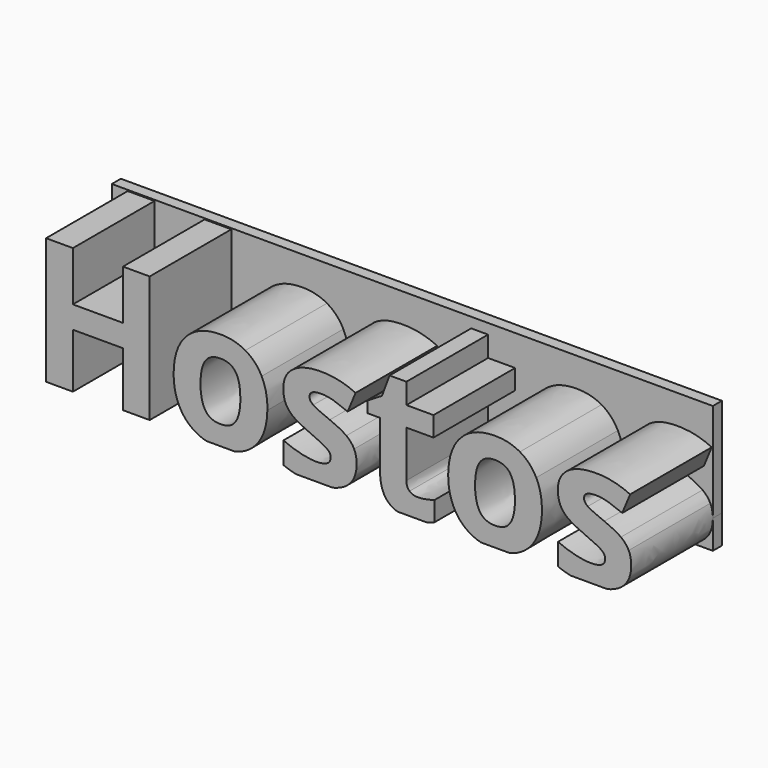
from build123d import *

# Parameters (mm, degrees)
F1_DEPTH = 25.4
F2_DEPTH = 2.54
F0_W     = 11.2133684961
F0_H     = 12.2237494054


with BuildPart() as f1:
    # F0 (on Front) → F1 (new body)
    with BuildSketch(Plane.XZ):
        Polygon((-48.6938247979, 41.4673178578), (-48.6938247979, 13.1456591189), (-42.6873272453, 13.1456591189), (-42.6873272453, 25.3694085243), (-31.4739587492, 25.3694085243), (-31.4739587492, 13.1456591189), (-25.4860571642, 13.1456591189), (-25.4860571642, 41.4673178578), (-31.4739587492, 41.4673178578), (-31.4739587492, 30.3655251676), (-42.6873272453, 30.3655251676), (-42.6873272453, 41.4673178578), align=None)
        with BuildLine():
            add(Edge.make_bspline(
                [(-12.8028167452, 13.1456591189), (-14.0713804689, 13.4857310654), (-15.1807917553, 14.1219474208)],
                knots=[0.5345224838, 0.5345224838, 0.5345224838, 1, 1, 1], degree=2))
            Line((-12.8028167452, 13.1456591189), (-6.3648471576, 13.1456591189))
            add(Edge.make_bspline(
                [(-1.9125688333, 15.7397966068), (-3.692984882, 13.8347514347), (-6.3648471576, 13.1456591189)],
                knots=[0, 0, 0, 0.6382803275, 0.6382803275, 0.6382803275], degree=2))
            add(Edge.make_bspline(
                [(0.8733773414, 23.6429013312), (0.7787419111, 18.6194991032), (-1.9125688333, 15.7397966068)],
                knots=[0.0351633235, 0.0351633235, 0.0351633235, 1, 1, 1], degree=2))
            add(Edge.make_bspline(
                [(0.876826315, 24.0119028854), (0.876826315, 23.8259784486), (0.8733773414, 23.6429013312)],
                knots=[0, 0, 0, 0.0351633235, 0.0351633235, 0.0351633235], degree=2))
            add(Edge.make_bspline(
                [(-0.4000967973, 29.9595132072), (0.876826315, 27.4211636222), (0.876826315, 24.0119028854)],
                knots=[0, 0, 0, 1, 1, 1], degree=2))
            add(Edge.make_bspline(
                [(-4.0604030975, 33.852269103), (-1.6770199096, 32.4978627921), (-0.4000967973, 29.9595132072)],
                knots=[0, 0, 0, 1, 1, 1], degree=2))
            add(Edge.make_bspline(
                [(-9.5617101955, 35.2066754139), (-6.4437862853, 35.2066754139), (-4.0604030975, 33.852269103)],
                knots=[0, 0, 0, 1, 1, 1], degree=2))
            add(Edge.make_bspline(
                [(-17.3503213151, 32.2623138685), (-14.5826214624, 35.2066754139), (-9.5617101955, 35.2066754139)],
                knots=[0, 0, 0, 1, 1, 1], degree=2))
            add(Edge.make_bspline(
                [(-20.1180211677, 24.0119028854), (-20.1180211677, 29.3179523231), (-17.3503213151, 32.2623138685)],
                knots=[0, 0, 0, 1, 1, 1], degree=2))
            add(Edge.make_bspline(
                [(-18.8410980554, 18.045696596), (-20.1180211677, 20.6026421486), (-20.1180211677, 24.0119028854)],
                knots=[0, 0, 0, 1, 1, 1], degree=2))
            add(Edge.make_bspline(
                [(-15.1807917553, 14.1219474208), (-17.5641749431, 15.4887510434), (-18.8410980554, 18.045696596)],
                knots=[0, 0, 0, 1, 1, 1], degree=2))
        make_face()
        with BuildLine():
            add(Edge.make_bspline(
                [(-5.1703271974, 23.6429013312), (-5.1668631729, 23.8247263049), (-5.1668631729, 24.0119028854)],
                knots=[0.9421526487, 0.9421526487, 0.9421526487, 1, 1, 1], degree=2))
            add(Edge.make_bspline(
                [(-6.2020387057, 19.1397593598), (-5.2267453357, 20.6815404957), (-5.1703271974, 23.6429013312)],
                knots=[0, 0, 0, 0.9421526487, 0.9421526487, 0.9421526487], degree=2))
            add(Edge.make_bspline(
                [(-9.6051007867, 17.5033142061), (-7.2372142386, 17.5033142061), (-6.2020387057, 19.1397593598)],
                knots=[0, 0, 0, 1, 1, 1], degree=2))
            add(Edge.make_bspline(
                [(-13.0422554749, 19.1490573436), (-11.9853846465, 17.5033142061), (-9.6051007867, 17.5033142061)],
                knots=[0, 0, 0, 1, 1, 1], degree=2))
            add(Edge.make_bspline(
                [(-14.0991263033, 24.0119028854), (-14.0991263033, 20.7948004811), (-13.0422554749, 19.1490573436)],
                knots=[0, 0, 0, 1, 1, 1], degree=2))
            add(Edge.make_bspline(
                [(-13.0515534588, 28.8468544758), (-14.0991263033, 27.2476012574), (-14.0991263033, 24.0119028854)],
                knots=[0, 0, 0, 1, 1, 1], degree=2))
            add(Edge.make_bspline(
                [(-9.642292722, 30.4461076941), (-12.0039806142, 30.4461076941), (-13.0515534588, 28.8468544758)],
                knots=[0, 0, 0, 1, 1, 1], degree=2))
            add(Edge.make_bspline(
                [(-6.2113366896, 28.837556492), (-7.2558102062, 30.4461076941), (-9.642292722, 30.4461076941)],
                knots=[0, 0, 0, 1, 1, 1], degree=2))
            add(Edge.make_bspline(
                [(-5.1668631729, 24.0119028854), (-5.1668631729, 27.2290052898), (-6.2113366896, 28.837556492)],
                knots=[0, 0, 0, 1, 1, 1], degree=2))
        make_face(mode=Mode.SUBTRACT)
        with BuildLine():
            add(Edge.make_bspline(
                [(7.2675746635, 13.1456591189), (5.7883494498, 13.4624450646), (4.4844440401, 14.0196695987)],
                knots=[0.101055867, 0.101055867, 0.101055867, 1, 1, 1], degree=2))
            Line((7.2675746635, 13.1456591189), (15.4809776707, 13.1456591189))
            add(Edge.make_bspline(
                [(18.5584922272, 14.5000654298), (17.3385592516, 13.5806246463), (15.4809776707, 13.1456591189)],
                knots=[0, 0, 0, 0.5269238267, 0.5269238267, 0.5269238267], degree=2))
            add(Edge.make_bspline(
                [(20.8736902003, 19.5798639276), (20.8736902003, 16.2449870614), (18.5584922272, 14.5000654298)],
                knots=[0, 0, 0, 1, 1, 1], degree=2))
            add(Edge.make_bspline(
                [(20.3096125147, 22.3475637803), (20.8736902003, 21.1853158018), (20.8736902003, 19.5798639276)],
                knots=[0, 0, 0, 1, 1, 1], degree=2))
            add(Edge.make_bspline(
                [(18.5646908831, 24.3993188782), (19.7455348292, 23.5098117587), (20.3096125147, 22.3475637803)],
                knots=[0, 0, 0, 1, 1, 1], degree=2))
            add(Edge.make_bspline(
                [(14.84859668, 26.3178028747), (17.383846937, 25.2888259978), (18.5646908831, 24.3993188782)],
                knots=[0, 0, 0, 1, 1, 1], degree=2))
            add(Edge.make_bspline(
                [(11.1541977725, 28.0410292107), (11.9972149728, 27.4583555575), (14.84859668, 26.3178028747)],
                knots=[0, 0, 0, 1, 1, 1], degree=2))
            add(Edge.make_bspline(
                [(10.3111805721, 29.4171308172), (10.3111805721, 28.6237028639), (11.1541977725, 28.0410292107)],
                knots=[0, 0, 0, 1, 1, 1], degree=2))
            add(Edge.make_bspline(
                [(12.9270133556, 30.830424359), (10.3111805721, 30.830424359), (10.3111805721, 29.4171308172)],
                knots=[0, 0, 0, 1, 1, 1], degree=2))
            add(Edge.make_bspline(
                [(15.815586998, 30.3841211353), (14.4022934562, 30.830424359), (12.9270133556, 30.830424359)],
                knots=[0, 0, 0, 1, 1, 1], degree=2))
            add(Edge.make_bspline(
                [(18.8591270376, 29.2435684524), (17.2288805398, 29.9378179116), (15.815586998, 30.3841211353)],
                knots=[0, 0, 0, 1, 1, 1], degree=2))
            Line((18.8591270376, 29.2435684524), (20.6381412766, 33.5020450455))
            add(Edge.make_bspline(
                [(13.0261918498, 35.2066754139), (16.9375437132, 35.2066754139), (20.6381412766, 33.5020450455)],
                knots=[0, 0, 0, 1, 1, 1], degree=2))
            add(Edge.make_bspline(
                [(6.6818675514, 33.6291174911), (8.9164829979, 35.2066754139), (13.0261918498, 35.2066754139)],
                knots=[0, 0, 0, 1, 1, 1], degree=2))
            add(Edge.make_bspline(
                [(4.4472521048, 29.1629859259), (4.4472521048, 32.0515595684), (6.6818675514, 33.6291174911)],
                knots=[0, 0, 0, 1, 1, 1], degree=2))
            add(Edge.make_bspline(
                [(4.977237183, 26.3302001864), (4.4472521048, 27.4831501811), (4.4472521048, 29.1629859259)],
                knots=[0, 0, 0, 1, 1, 1], degree=2))
            add(Edge.make_bspline(
                [(6.6818675514, 24.2846437444), (5.5072222612, 25.1772501918), (4.977237183, 26.3302001864)],
                knots=[0, 0, 0, 1, 1, 1], degree=2))
            add(Edge.make_bspline(
                [(10.3545711633, 22.3444644523), (7.8565128416, 23.3920372969), (6.6818675514, 24.2846437444)],
                knots=[0, 0, 0, 1, 1, 1], degree=2))
            add(Edge.make_bspline(
                [(13.1408669836, 21.0613426841), (12.096393467, 21.6130230579), (10.3545711633, 22.3444644523)],
                knots=[0, 0, 0, 1, 1, 1], degree=2))
            add(Edge.make_bspline(
                [(14.6130477563, 20.0726570705), (14.1853405003, 20.5096623104), (13.1408669836, 21.0613426841)],
                knots=[0, 0, 0, 1, 1, 1], degree=2))
            add(Edge.make_bspline(
                [(15.0407550124, 18.9352037156), (15.0407550124, 19.6356518306), (14.6130477563, 20.0726570705)],
                knots=[0, 0, 0, 1, 1, 1], degree=2))
            add(Edge.make_bspline(
                [(11.823652608, 17.07560695), (15.0407550124, 17.07560695), (15.0407550124, 18.9352037156)],
                knots=[0, 0, 0, 1, 1, 1], degree=2))
            add(Edge.make_bspline(
                [(8.1912402594, 17.5993933723), (10.2553926691, 17.07560695), (11.823652608, 17.07560695)],
                knots=[0, 0, 0, 1, 1, 1], degree=2))
            add(Edge.make_bspline(
                [(4.4844440401, 18.8980117802), (6.1270878497, 18.1231797946), (8.1912402594, 17.5993933723)],
                knots=[0, 0, 0, 1, 1, 1], degree=2))
            Line((4.4844440401, 18.8980117802), (4.4844440401, 14.0196695987))
        make_face()
        with BuildLine():
            Line((30.010569154, 13.1456591189), (36.5386766088, 13.1456591189))
            add(Edge.make_bspline(
                [(38.3229065167, 13.7469287397), (37.5008917701, 13.3774839098), (36.5386766088, 13.1456591189)],
                knots=[0, 0, 0, 0.3725049801, 0.3725049801, 0.3725049801], degree=2))
            Line((38.3229065167, 13.7469287397), (38.3229065167, 18.1417757623))
            add(Edge.make_bspline(
                [(34.6037129857, 17.4661222708), (36.153376957, 17.4661222708), (38.3229065167, 18.1417757623)],
                knots=[0, 0, 0, 1, 1, 1], degree=2))
            add(Edge.make_bspline(
                [(32.7317189084, 18.0673918916), (33.4383656793, 17.4661222708), (34.6037129857, 17.4661222708)],
                knots=[0, 0, 0, 1, 1, 1], degree=2))
            add(Edge.make_bspline(
                [(32.0250721375, 19.9269886572), (32.0250721375, 18.6686615125), (32.7317189084, 18.0673918916)],
                knots=[0, 0, 0, 1, 1, 1], degree=2))
            Line((32.0250721375, 19.9269886572), (32.0250721375, 30.3655251676))
            Line((32.0250721375, 30.3655251676), (38.0873575931, 30.3655251676))
            Line((38.0873575931, 30.3655251676), (38.0873575931, 34.8037627813))
            Line((38.0873575931, 34.8037627813), (32.0250721375, 34.8037627813))
            Line((32.0250721375, 34.8037627813), (32.0250721375, 39.4155627598))
            Line((32.0250721375, 39.4155627598), (28.2500907035, 39.4155627598))
            Line((28.2500907035, 39.4155627598), (26.5454603351, 34.8409547167))
            Line((26.5454603351, 34.8409547167), (23.2911659954, 32.8635834893))
            Line((23.2911659954, 32.8635834893), (23.2911659954, 30.3655251676))
            Line((23.2911659954, 30.3655251676), (26.117753079, 30.3655251676))
            Line((26.117753079, 30.3655251676), (26.117753079, 19.9269886572))
            add(Edge.make_bspline(
                [(27.735602265, 14.5496546769), (26.117753079, 16.3441655556), (26.117753079, 19.9269886572)],
                knots=[0, 0, 0, 1, 1, 1], degree=2))
            add(Edge.make_bspline(
                [(30.010569154, 13.1456591189), (28.5987346372, 13.592272218), (27.735602265, 14.5496546769)],
                knots=[0.4664939231, 0.4664939231, 0.4664939231, 1, 1, 1], degree=2))
        make_face()
        with BuildLine():
            Line((48.7002469466, 13.1456591189), (55.1382165341, 13.1456591189))
            add(Edge.make_bspline(
                [(59.5904948584, 15.7397966068), (57.8100788097, 13.8347514347), (55.1382165341, 13.1456591189)],
                knots=[0, 0, 0, 0.6382803275, 0.6382803275, 0.6382803275], degree=2))
            add(Edge.make_bspline(
                [(62.3798900067, 24.0119028854), (62.3798900067, 18.7244494155), (59.5904948584, 15.7397966068)],
                knots=[0, 0, 0, 1, 1, 1], degree=2))
            add(Edge.make_bspline(
                [(61.1029668944, 29.9595132072), (62.3798900067, 27.4211636222), (62.3798900067, 24.0119028854)],
                knots=[0, 0, 0, 1, 1, 1], degree=2))
            add(Edge.make_bspline(
                [(57.4426605943, 33.852269103), (59.8260437821, 32.4978627921), (61.1029668944, 29.9595132072)],
                knots=[0, 0, 0, 1, 1, 1], degree=2))
            add(Edge.make_bspline(
                [(51.9413534963, 35.2066754139), (55.0592774064, 35.2066754139), (57.4426605943, 33.852269103)],
                knots=[0, 0, 0, 1, 1, 1], degree=2))
            add(Edge.make_bspline(
                [(44.1527423767, 32.2623138685), (46.9204422293, 35.2066754139), (51.9413534963, 35.2066754139)],
                knots=[0, 0, 0, 1, 1, 1], degree=2))
            add(Edge.make_bspline(
                [(41.3875737387, 24.330670014), (41.4687422411, 29.4069945753), (44.1527423767, 32.2623138685)],
                knots=[0.0302416164, 0.0302416164, 0.0302416164, 1, 1, 1], degree=2))
            add(Edge.make_bspline(
                [(41.385042524, 24.0119028854), (41.385042524, 24.1723663969), (41.3875737387, 24.330670014)],
                knots=[0, 0, 0, 0.0302416164, 0.0302416164, 0.0302416164], degree=2))
            add(Edge.make_bspline(
                [(42.6619656363, 18.045696596), (41.385042524, 20.6026421486), (41.385042524, 24.0119028854)],
                knots=[0, 0, 0, 1, 1, 1], degree=2))
            add(Edge.make_bspline(
                [(46.3222719364, 14.1219474208), (43.9388887486, 15.4887510434), (42.6619656363, 18.045696596)],
                knots=[0, 0, 0, 1, 1, 1], degree=2))
            add(Edge.make_bspline(
                [(48.7002469466, 13.1456591189), (47.4316832228, 13.4857310654), (46.3222719364, 14.1219474208)],
                knots=[0.5345224838, 0.5345224838, 0.5345224838, 1, 1, 1], degree=2))
        make_face()
        with BuildLine():
            add(Edge.make_bspline(
                [(47.4039373884, 24.0119028854), (47.4039373884, 20.7948004811), (48.4608082168, 19.1490573436)],
                knots=[0, 0, 0, 1, 1, 1], degree=2))
            add(Edge.make_bspline(
                [(48.451510233, 28.8468544758), (47.4039373884, 27.2476012574), (47.4039373884, 24.0119028854)],
                knots=[0, 0, 0, 1, 1, 1], degree=2))
            add(Edge.make_bspline(
                [(51.8607709697, 30.4461076941), (49.4990830775, 30.4461076941), (48.451510233, 28.8468544758)],
                knots=[0, 0, 0, 1, 1, 1], degree=2))
            add(Edge.make_bspline(
                [(55.2917270021, 28.837556492), (54.2472534855, 30.4461076941), (51.8607709697, 30.4461076941)],
                knots=[0, 0, 0, 1, 1, 1], degree=2))
            add(Edge.make_bspline(
                [(56.3298819879, 24.502614513), (56.2549629773, 27.3541159248), (55.2917270021, 28.837556492)],
                knots=[0.0777784598, 0.0777784598, 0.0777784598, 1, 1, 1], degree=2))
            add(Edge.make_bspline(
                [(56.3362005188, 24.0119028854), (56.3362005188, 24.2621241555), (56.3298819879, 24.502614513)],
                knots=[0, 0, 0, 0.0777784598, 0.0777784598, 0.0777784598], degree=2))
            add(Edge.make_bspline(
                [(55.301024986, 19.1397593598), (56.3362005188, 20.7762045134), (56.3362005188, 24.0119028854)],
                knots=[0, 0, 0, 1, 1, 1], degree=2))
            add(Edge.make_bspline(
                [(51.8979629051, 17.5033142061), (54.2658494532, 17.5033142061), (55.301024986, 19.1397593598)],
                knots=[0, 0, 0, 1, 1, 1], degree=2))
            add(Edge.make_bspline(
                [(48.4608082168, 19.1490573436), (49.5176790452, 17.5033142061), (51.8979629051, 17.5033142061)],
                knots=[0, 0, 0, 1, 1, 1], degree=2))
        make_face(mode=Mode.SUBTRACT)
        with BuildLine():
            add(Edge.make_bspline(
                [(82.376753892, 19.5798639276), (82.376753892, 16.2449870614), (80.0615559189, 14.5000654298)],
                knots=[0, 0, 0, 1, 1, 1], degree=2))
            add(Edge.make_bspline(
                [(81.8126762064, 22.3475637803), (82.376753892, 21.1853158018), (82.376753892, 19.5798639276)],
                knots=[0, 0, 0, 1, 1, 1], degree=2))
            add(Edge.make_bspline(
                [(80.0677545748, 24.3993188782), (81.2485985209, 23.5098117587), (81.8126762064, 22.3475637803)],
                knots=[0, 0, 0, 1, 1, 1], degree=2))
            add(Edge.make_bspline(
                [(76.3516603717, 26.3178028747), (78.8869106287, 25.2888259978), (80.0677545748, 24.3993188782)],
                knots=[0, 0, 0, 1, 1, 1], degree=2))
            add(Edge.make_bspline(
                [(72.6572614642, 28.0410292107), (73.5002786645, 27.4583555575), (76.3516603717, 26.3178028747)],
                knots=[0, 0, 0, 1, 1, 1], degree=2))
            add(Edge.make_bspline(
                [(71.8142442638, 29.4171308172), (71.8142442638, 28.6237028639), (72.6572614642, 28.0410292107)],
                knots=[0, 0, 0, 1, 1, 1], degree=2))
            add(Edge.make_bspline(
                [(74.4300770473, 30.830424359), (71.8142442638, 30.830424359), (71.8142442638, 29.4171308172)],
                knots=[0, 0, 0, 1, 1, 1], degree=2))
            add(Edge.make_bspline(
                [(77.3186506898, 30.3841211353), (75.905357148, 30.830424359), (74.4300770473, 30.830424359)],
                knots=[0, 0, 0, 1, 1, 1], degree=2))
            add(Edge.make_bspline(
                [(80.3621907293, 29.2435684524), (78.7319442315, 29.9378179116), (77.3186506898, 30.3841211353)],
                knots=[0, 0, 0, 1, 1, 1], degree=2))
            Line((80.3621907293, 29.2435684524), (82.1412049683, 33.5020450455))
            add(Edge.make_bspline(
                [(74.5292555415, 35.2066754139), (78.440607405, 35.2066754139), (82.1412049683, 33.5020450455)],
                knots=[0, 0, 0, 1, 1, 1], degree=2))
            add(Edge.make_bspline(
                [(68.1849312431, 33.6291174911), (70.4195466897, 35.2066754139), (74.5292555415, 35.2066754139)],
                knots=[0, 0, 0, 1, 1, 1], degree=2))
            add(Edge.make_bspline(
                [(65.9503157965, 29.1629859259), (65.9503157965, 32.0515595684), (68.1849312431, 33.6291174911)],
                knots=[0, 0, 0, 1, 1, 1], degree=2))
            add(Edge.make_bspline(
                [(66.4803008747, 26.3302001864), (65.9503157965, 27.4831501811), (65.9503157965, 29.1629859259)],
                knots=[0, 0, 0, 1, 1, 1], degree=2))
            add(Edge.make_bspline(
                [(68.1849312431, 24.2846437444), (67.0102859529, 25.1772501918), (66.4803008747, 26.3302001864)],
                knots=[0, 0, 0, 1, 1, 1], degree=2))
            add(Edge.make_bspline(
                [(71.857634855, 22.3444644523), (69.3595765333, 23.3920372969), (68.1849312431, 24.2846437444)],
                knots=[0, 0, 0, 1, 1, 1], degree=2))
            add(Edge.make_bspline(
                [(74.6439306753, 21.0613426841), (73.5994571587, 21.6130230579), (71.857634855, 22.3444644523)],
                knots=[0, 0, 0, 1, 1, 1], degree=2))
            add(Edge.make_bspline(
                [(76.116111448, 20.0726570705), (75.688404192, 20.5096623104), (74.6439306753, 21.0613426841)],
                knots=[0, 0, 0, 1, 1, 1], degree=2))
            add(Edge.make_bspline(
                [(76.5438187041, 18.9352037156), (76.5438187041, 19.6356518306), (76.116111448, 20.0726570705)],
                knots=[0, 0, 0, 1, 1, 1], degree=2))
            add(Edge.make_bspline(
                [(73.3267162998, 17.07560695), (76.5438187041, 17.07560695), (76.5438187041, 18.9352037156)],
                knots=[0, 0, 0, 1, 1, 1], degree=2))
            add(Edge.make_bspline(
                [(69.6943039511, 17.5993933723), (71.7584563608, 17.07560695), (73.3267162998, 17.07560695)],
                knots=[0, 0, 0, 1, 1, 1], degree=2))
            add(Edge.make_bspline(
                [(65.9875077318, 18.8980117802), (67.6301515414, 18.1231797946), (69.6943039511, 17.5993933723)],
                knots=[0, 0, 0, 1, 1, 1], degree=2))
            Line((65.9875077318, 18.8980117802), (65.9875077318, 14.0196695987))
            add(Edge.make_bspline(
                [(68.7706383552, 13.1456591189), (67.2914131415, 13.4624450646), (65.9875077318, 14.0196695987)],
                knots=[0.101055867, 0.101055867, 0.101055867, 1, 1, 1], degree=2))
            Line((68.7706383552, 13.1456591189), (76.9840413624, 13.1456591189))
            add(Edge.make_bspline(
                [(80.0615559189, 14.5000654298), (78.8416229433, 13.5806246463), (76.9840413624, 13.1456591189)],
                knots=[0, 0, 0, 0.5269238267, 0.5269238267, 0.5269238267], degree=2))
        make_face()
    extrude(amount=F1_DEPTH)


with BuildPart() as f2:
    # F0 (on Front) → F2 (new body)
    with BuildSketch(Plane.XZ):
        with BuildLine():
            Line((82.376753892, 41.7090654373), (-52.2580519319, 41.7090654373))
            Line((-52.2580519319, 41.7090654373), (-52.2580519319, 13.1456591189))
            Line((-52.2580519319, 13.1456591189), (-48.6938247979, 13.1456591189))
            Line((-48.6938247979, 13.1456591189), (-48.6938247979, 41.4673178578))
            Line((-48.6938247979, 41.4673178578), (-42.6873272453, 41.4673178578))
            Line((-42.6873272453, 41.4673178578), (-42.6873272453, 30.3655251676))
            Line((-42.6873272453, 30.3655251676), (-31.4739587492, 30.3655251676))
            Line((-31.4739587492, 30.3655251676), (-31.4739587492, 41.4673178578))
            Line((-31.4739587492, 41.4673178578), (-25.4860571642, 41.4673178578))
            Line((-25.4860571642, 41.4673178578), (-25.4860571642, 13.1456591189))
            Line((-25.4860571642, 13.1456591189), (-12.8028167452, 13.1456591189))
            add(Edge.make_bspline(
                [(-12.8028167452, 13.1456591189), (-14.0713804689, 13.4857310654), (-15.1807917553, 14.1219474208)],
                knots=[0.5345224838, 0.5345224838, 0.5345224838, 1, 1, 1], degree=2))
            add(Edge.make_bspline(
                [(-15.1807917553, 14.1219474208), (-17.5641749431, 15.4887510434), (-18.8410980554, 18.045696596)],
                knots=[0, 0, 0, 1, 1, 1], degree=2))
            add(Edge.make_bspline(
                [(-18.8410980554, 18.045696596), (-20.1180211677, 20.6026421486), (-20.1180211677, 24.0119028854)],
                knots=[0, 0, 0, 1, 1, 1], degree=2))
            add(Edge.make_bspline(
                [(-20.1180211677, 24.0119028854), (-20.1180211677, 29.3179523231), (-17.3503213151, 32.2623138685)],
                knots=[0, 0, 0, 1, 1, 1], degree=2))
            add(Edge.make_bspline(
                [(-17.3503213151, 32.2623138685), (-14.5826214624, 35.2066754139), (-9.5617101955, 35.2066754139)],
                knots=[0, 0, 0, 1, 1, 1], degree=2))
            add(Edge.make_bspline(
                [(-9.5617101955, 35.2066754139), (-6.4437862853, 35.2066754139), (-4.0604030975, 33.852269103)],
                knots=[0, 0, 0, 1, 1, 1], degree=2))
            add(Edge.make_bspline(
                [(-4.0604030975, 33.852269103), (-1.6770199096, 32.4978627921), (-0.4000967973, 29.9595132072)],
                knots=[0, 0, 0, 1, 1, 1], degree=2))
            add(Edge.make_bspline(
                [(-0.4000967973, 29.9595132072), (0.876826315, 27.4211636222), (0.876826315, 24.0119028854)],
                knots=[0, 0, 0, 1, 1, 1], degree=2))
            add(Edge.make_bspline(
                [(0.876826315, 24.0119028854), (0.876826315, 23.8259784486), (0.8733773414, 23.6429013312)],
                knots=[0, 0, 0, 0.0351633235, 0.0351633235, 0.0351633235], degree=2))
            add(Edge.make_bspline(
                [(0.8733773414, 23.6429013312), (0.7787419111, 18.6194991032), (-1.9125688333, 15.7397966068)],
                knots=[0.0351633235, 0.0351633235, 0.0351633235, 1, 1, 1], degree=2))
            add(Edge.make_bspline(
                [(-1.9125688333, 15.7397966068), (-3.692984882, 13.8347514347), (-6.3648471576, 13.1456591189)],
                knots=[0, 0, 0, 0.6382803275, 0.6382803275, 0.6382803275], degree=2))
            Line((-6.3648471576, 13.1456591189), (7.2675746635, 13.1456591189))
            add(Edge.make_bspline(
                [(7.2675746635, 13.1456591189), (5.7883494498, 13.4624450646), (4.4844440401, 14.0196695987)],
                knots=[0.101055867, 0.101055867, 0.101055867, 1, 1, 1], degree=2))
            Line((4.4844440401, 14.0196695987), (4.4844440401, 18.8980117802))
            add(Edge.make_bspline(
                [(4.4844440401, 18.8980117802), (6.1270878497, 18.1231797946), (8.1912402594, 17.5993933723)],
                knots=[0, 0, 0, 1, 1, 1], degree=2))
            add(Edge.make_bspline(
                [(8.1912402594, 17.5993933723), (10.2553926691, 17.07560695), (11.823652608, 17.07560695)],
                knots=[0, 0, 0, 1, 1, 1], degree=2))
            add(Edge.make_bspline(
                [(11.823652608, 17.07560695), (15.0407550124, 17.07560695), (15.0407550124, 18.9352037156)],
                knots=[0, 0, 0, 1, 1, 1], degree=2))
            add(Edge.make_bspline(
                [(15.0407550124, 18.9352037156), (15.0407550124, 19.6356518306), (14.6130477563, 20.0726570705)],
                knots=[0, 0, 0, 1, 1, 1], degree=2))
            add(Edge.make_bspline(
                [(14.6130477563, 20.0726570705), (14.1853405003, 20.5096623104), (13.1408669836, 21.0613426841)],
                knots=[0, 0, 0, 1, 1, 1], degree=2))
            add(Edge.make_bspline(
                [(13.1408669836, 21.0613426841), (12.096393467, 21.6130230579), (10.3545711633, 22.3444644523)],
                knots=[0, 0, 0, 1, 1, 1], degree=2))
            add(Edge.make_bspline(
                [(10.3545711633, 22.3444644523), (7.8565128416, 23.3920372969), (6.6818675514, 24.2846437444)],
                knots=[0, 0, 0, 1, 1, 1], degree=2))
            add(Edge.make_bspline(
                [(6.6818675514, 24.2846437444), (5.5072222612, 25.1772501918), (4.977237183, 26.3302001864)],
                knots=[0, 0, 0, 1, 1, 1], degree=2))
            add(Edge.make_bspline(
                [(4.977237183, 26.3302001864), (4.4472521048, 27.4831501811), (4.4472521048, 29.1629859259)],
                knots=[0, 0, 0, 1, 1, 1], degree=2))
            add(Edge.make_bspline(
                [(4.4472521048, 29.1629859259), (4.4472521048, 32.0515595684), (6.6818675514, 33.6291174911)],
                knots=[0, 0, 0, 1, 1, 1], degree=2))
            add(Edge.make_bspline(
                [(6.6818675514, 33.6291174911), (8.9164829979, 35.2066754139), (13.0261918498, 35.2066754139)],
                knots=[0, 0, 0, 1, 1, 1], degree=2))
            add(Edge.make_bspline(
                [(13.0261918498, 35.2066754139), (16.9375437132, 35.2066754139), (20.6381412766, 33.5020450455)],
                knots=[0, 0, 0, 1, 1, 1], degree=2))
            Line((20.6381412766, 33.5020450455), (18.8591270376, 29.2435684524))
            add(Edge.make_bspline(
                [(18.8591270376, 29.2435684524), (17.2288805398, 29.9378179116), (15.815586998, 30.3841211353)],
                knots=[0, 0, 0, 1, 1, 1], degree=2))
            add(Edge.make_bspline(
                [(15.815586998, 30.3841211353), (14.4022934562, 30.830424359), (12.9270133556, 30.830424359)],
                knots=[0, 0, 0, 1, 1, 1], degree=2))
            add(Edge.make_bspline(
                [(12.9270133556, 30.830424359), (10.3111805721, 30.830424359), (10.3111805721, 29.4171308172)],
                knots=[0, 0, 0, 1, 1, 1], degree=2))
            add(Edge.make_bspline(
                [(10.3111805721, 29.4171308172), (10.3111805721, 28.6237028639), (11.1541977725, 28.0410292107)],
                knots=[0, 0, 0, 1, 1, 1], degree=2))
            add(Edge.make_bspline(
                [(11.1541977725, 28.0410292107), (11.9972149728, 27.4583555575), (14.84859668, 26.3178028747)],
                knots=[0, 0, 0, 1, 1, 1], degree=2))
            add(Edge.make_bspline(
                [(14.84859668, 26.3178028747), (17.383846937, 25.2888259978), (18.5646908831, 24.3993188782)],
                knots=[0, 0, 0, 1, 1, 1], degree=2))
            add(Edge.make_bspline(
                [(18.5646908831, 24.3993188782), (19.7455348292, 23.5098117587), (20.3096125147, 22.3475637803)],
                knots=[0, 0, 0, 1, 1, 1], degree=2))
            add(Edge.make_bspline(
                [(20.3096125147, 22.3475637803), (20.8736902003, 21.1853158018), (20.8736902003, 19.5798639276)],
                knots=[0, 0, 0, 1, 1, 1], degree=2))
            add(Edge.make_bspline(
                [(20.8736902003, 19.5798639276), (20.8736902003, 16.2449870614), (18.5584922272, 14.5000654298)],
                knots=[0, 0, 0, 1, 1, 1], degree=2))
            add(Edge.make_bspline(
                [(18.5584922272, 14.5000654298), (17.3385592516, 13.5806246463), (15.4809776707, 13.1456591189)],
                knots=[0, 0, 0, 0.5269238267, 0.5269238267, 0.5269238267], degree=2))
            Line((15.4809776707, 13.1456591189), (30.010569154, 13.1456591189))
            add(Edge.make_bspline(
                [(30.010569154, 13.1456591189), (28.5987346372, 13.592272218), (27.735602265, 14.5496546769)],
                knots=[0.4664939231, 0.4664939231, 0.4664939231, 1, 1, 1], degree=2))
            add(Edge.make_bspline(
                [(27.735602265, 14.5496546769), (26.117753079, 16.3441655556), (26.117753079, 19.9269886572)],
                knots=[0, 0, 0, 1, 1, 1], degree=2))
            Line((26.117753079, 19.9269886572), (26.117753079, 30.3655251676))
            Line((26.117753079, 30.3655251676), (23.2911659954, 30.3655251676))
            Line((23.2911659954, 30.3655251676), (23.2911659954, 32.8635834893))
            Line((23.2911659954, 32.8635834893), (26.5454603351, 34.8409547167))
            Line((26.5454603351, 34.8409547167), (28.2500907035, 39.4155627598))
            Line((28.2500907035, 39.4155627598), (32.0250721375, 39.4155627598))
            Line((32.0250721375, 39.4155627598), (32.0250721375, 34.8037627813))
            Line((32.0250721375, 34.8037627813), (38.0873575931, 34.8037627813))
            Line((38.0873575931, 34.8037627813), (38.0873575931, 30.3655251676))
            Line((38.0873575931, 30.3655251676), (32.0250721375, 30.3655251676))
            Line((32.0250721375, 30.3655251676), (32.0250721375, 19.9269886572))
            add(Edge.make_bspline(
                [(32.0250721375, 19.9269886572), (32.0250721375, 18.6686615125), (32.7317189084, 18.0673918916)],
                knots=[0, 0, 0, 1, 1, 1], degree=2))
            add(Edge.make_bspline(
                [(32.7317189084, 18.0673918916), (33.4383656793, 17.4661222708), (34.6037129857, 17.4661222708)],
                knots=[0, 0, 0, 1, 1, 1], degree=2))
            add(Edge.make_bspline(
                [(34.6037129857, 17.4661222708), (36.153376957, 17.4661222708), (38.3229065167, 18.1417757623)],
                knots=[0, 0, 0, 1, 1, 1], degree=2))
            Line((38.3229065167, 18.1417757623), (38.3229065167, 13.7469287397))
            add(Edge.make_bspline(
                [(38.3229065167, 13.7469287397), (37.5008917701, 13.3774839098), (36.5386766088, 13.1456591189)],
                knots=[0, 0, 0, 0.3725049801, 0.3725049801, 0.3725049801], degree=2))
            Line((36.5386766088, 13.1456591189), (48.7002469466, 13.1456591189))
            add(Edge.make_bspline(
                [(48.7002469466, 13.1456591189), (47.4316832228, 13.4857310654), (46.3222719364, 14.1219474208)],
                knots=[0.5345224838, 0.5345224838, 0.5345224838, 1, 1, 1], degree=2))
            add(Edge.make_bspline(
                [(46.3222719364, 14.1219474208), (43.9388887486, 15.4887510434), (42.6619656363, 18.045696596)],
                knots=[0, 0, 0, 1, 1, 1], degree=2))
            add(Edge.make_bspline(
                [(42.6619656363, 18.045696596), (41.385042524, 20.6026421486), (41.385042524, 24.0119028854)],
                knots=[0, 0, 0, 1, 1, 1], degree=2))
            add(Edge.make_bspline(
                [(41.385042524, 24.0119028854), (41.385042524, 24.1723663969), (41.3875737387, 24.330670014)],
                knots=[0, 0, 0, 0.0302416164, 0.0302416164, 0.0302416164], degree=2))
            add(Edge.make_bspline(
                [(41.3875737387, 24.330670014), (41.4687422411, 29.4069945753), (44.1527423767, 32.2623138685)],
                knots=[0.0302416164, 0.0302416164, 0.0302416164, 1, 1, 1], degree=2))
            add(Edge.make_bspline(
                [(44.1527423767, 32.2623138685), (46.9204422293, 35.2066754139), (51.9413534963, 35.2066754139)],
                knots=[0, 0, 0, 1, 1, 1], degree=2))
            add(Edge.make_bspline(
                [(51.9413534963, 35.2066754139), (55.0592774064, 35.2066754139), (57.4426605943, 33.852269103)],
                knots=[0, 0, 0, 1, 1, 1], degree=2))
            add(Edge.make_bspline(
                [(57.4426605943, 33.852269103), (59.8260437821, 32.4978627921), (61.1029668944, 29.9595132072)],
                knots=[0, 0, 0, 1, 1, 1], degree=2))
            add(Edge.make_bspline(
                [(61.1029668944, 29.9595132072), (62.3798900067, 27.4211636222), (62.3798900067, 24.0119028854)],
                knots=[0, 0, 0, 1, 1, 1], degree=2))
            add(Edge.make_bspline(
                [(62.3798900067, 24.0119028854), (62.3798900067, 18.7244494155), (59.5904948584, 15.7397966068)],
                knots=[0, 0, 0, 1, 1, 1], degree=2))
            add(Edge.make_bspline(
                [(59.5904948584, 15.7397966068), (57.8100788097, 13.8347514347), (55.1382165341, 13.1456591189)],
                knots=[0, 0, 0, 0.6382803275, 0.6382803275, 0.6382803275], degree=2))
            Line((55.1382165341, 13.1456591189), (68.7706383552, 13.1456591189))
            add(Edge.make_bspline(
                [(68.7706383552, 13.1456591189), (67.2914131415, 13.4624450646), (65.9875077318, 14.0196695987)],
                knots=[0.101055867, 0.101055867, 0.101055867, 1, 1, 1], degree=2))
            Line((65.9875077318, 14.0196695987), (65.9875077318, 18.8980117802))
            add(Edge.make_bspline(
                [(65.9875077318, 18.8980117802), (67.6301515414, 18.1231797946), (69.6943039511, 17.5993933723)],
                knots=[0, 0, 0, 1, 1, 1], degree=2))
            add(Edge.make_bspline(
                [(69.6943039511, 17.5993933723), (71.7584563608, 17.07560695), (73.3267162998, 17.07560695)],
                knots=[0, 0, 0, 1, 1, 1], degree=2))
            add(Edge.make_bspline(
                [(73.3267162998, 17.07560695), (76.5438187041, 17.07560695), (76.5438187041, 18.9352037156)],
                knots=[0, 0, 0, 1, 1, 1], degree=2))
            add(Edge.make_bspline(
                [(76.5438187041, 18.9352037156), (76.5438187041, 19.6356518306), (76.116111448, 20.0726570705)],
                knots=[0, 0, 0, 1, 1, 1], degree=2))
            add(Edge.make_bspline(
                [(76.116111448, 20.0726570705), (75.688404192, 20.5096623104), (74.6439306753, 21.0613426841)],
                knots=[0, 0, 0, 1, 1, 1], degree=2))
            add(Edge.make_bspline(
                [(74.6439306753, 21.0613426841), (73.5994571587, 21.6130230579), (71.857634855, 22.3444644523)],
                knots=[0, 0, 0, 1, 1, 1], degree=2))
            add(Edge.make_bspline(
                [(71.857634855, 22.3444644523), (69.3595765333, 23.3920372969), (68.1849312431, 24.2846437444)],
                knots=[0, 0, 0, 1, 1, 1], degree=2))
            add(Edge.make_bspline(
                [(68.1849312431, 24.2846437444), (67.0102859529, 25.1772501918), (66.4803008747, 26.3302001864)],
                knots=[0, 0, 0, 1, 1, 1], degree=2))
            add(Edge.make_bspline(
                [(66.4803008747, 26.3302001864), (65.9503157965, 27.4831501811), (65.9503157965, 29.1629859259)],
                knots=[0, 0, 0, 1, 1, 1], degree=2))
            add(Edge.make_bspline(
                [(65.9503157965, 29.1629859259), (65.9503157965, 32.0515595684), (68.1849312431, 33.6291174911)],
                knots=[0, 0, 0, 1, 1, 1], degree=2))
            add(Edge.make_bspline(
                [(68.1849312431, 33.6291174911), (70.4195466897, 35.2066754139), (74.5292555415, 35.2066754139)],
                knots=[0, 0, 0, 1, 1, 1], degree=2))
            add(Edge.make_bspline(
                [(74.5292555415, 35.2066754139), (78.440607405, 35.2066754139), (82.1412049683, 33.5020450455)],
                knots=[0, 0, 0, 1, 1, 1], degree=2))
            Line((82.1412049683, 33.5020450455), (80.3621907293, 29.2435684524))
            add(Edge.make_bspline(
                [(80.3621907293, 29.2435684524), (78.7319442315, 29.9378179116), (77.3186506898, 30.3841211353)],
                knots=[0, 0, 0, 1, 1, 1], degree=2))
            add(Edge.make_bspline(
                [(77.3186506898, 30.3841211353), (75.905357148, 30.830424359), (74.4300770473, 30.830424359)],
                knots=[0, 0, 0, 1, 1, 1], degree=2))
            add(Edge.make_bspline(
                [(74.4300770473, 30.830424359), (71.8142442638, 30.830424359), (71.8142442638, 29.4171308172)],
                knots=[0, 0, 0, 1, 1, 1], degree=2))
            add(Edge.make_bspline(
                [(71.8142442638, 29.4171308172), (71.8142442638, 28.6237028639), (72.6572614642, 28.0410292107)],
                knots=[0, 0, 0, 1, 1, 1], degree=2))
            add(Edge.make_bspline(
                [(72.6572614642, 28.0410292107), (73.5002786645, 27.4583555575), (76.3516603717, 26.3178028747)],
                knots=[0, 0, 0, 1, 1, 1], degree=2))
            add(Edge.make_bspline(
                [(76.3516603717, 26.3178028747), (78.8869106287, 25.2888259978), (80.0677545748, 24.3993188782)],
                knots=[0, 0, 0, 1, 1, 1], degree=2))
            add(Edge.make_bspline(
                [(80.0677545748, 24.3993188782), (81.2485985209, 23.5098117587), (81.8126762064, 22.3475637803)],
                knots=[0, 0, 0, 1, 1, 1], degree=2))
            add(Edge.make_bspline(
                [(81.8126762064, 22.3475637803), (82.376753892, 21.1853158018), (82.376753892, 19.5798639276)],
                knots=[0, 0, 0, 1, 1, 1], degree=2))
            Line((82.376753892, 19.5798639276), (82.376753892, 41.7090654373))
        make_face()
    extrude(amount=F2_DEPTH)


with BuildPart() as f2b:
    # F0 (on Front) → F2, piece 2 (new body)
    with BuildSketch(Plane.XZ):
        with Locations((-37.0806429973, 19.2575338216)):
            Rectangle(F0_W, F0_H)
    extrude(amount=F2_DEPTH)


with BuildPart() as f2c:
    # F0 (on Front) → F2, piece 3 (new body)
    with BuildSketch(Plane.XZ):
        with BuildLine():
            Line((82.376753892, 13.1456591189), (82.376753892, 19.5798639276))
            add(Edge.make_bspline(
                [(82.376753892, 19.5798639276), (82.376753892, 16.2449870614), (80.0615559189, 14.5000654298)],
                knots=[0, 0, 0, 1, 1, 1], degree=2))
            add(Edge.make_bspline(
                [(80.0615559189, 14.5000654298), (78.8416229433, 13.5806246463), (76.9840413624, 13.1456591189)],
                knots=[0, 0, 0, 0.5269238267, 0.5269238267, 0.5269238267], degree=2))
            Line((76.9840413624, 13.1456591189), (82.376753892, 13.1456591189))
        make_face()
    extrude(amount=F2_DEPTH)


with BuildPart() as f2d:
    # F0 (on Front) → F2, piece 4 (new body)
    with BuildSketch(Plane.XZ):
        with BuildLine():
            add(Edge.make_bspline(
                [(-6.2020387057, 19.1397593598), (-5.2267453357, 20.6815404957), (-5.1703271974, 23.6429013312)],
                knots=[0, 0, 0, 0.9421526487, 0.9421526487, 0.9421526487], degree=2))
            add(Edge.make_bspline(
                [(-5.1703271974, 23.6429013312), (-5.1668631729, 23.8247263049), (-5.1668631729, 24.0119028854)],
                knots=[0.9421526487, 0.9421526487, 0.9421526487, 1, 1, 1], degree=2))
            add(Edge.make_bspline(
                [(-5.1668631729, 24.0119028854), (-5.1668631729, 27.2290052898), (-6.2113366896, 28.837556492)],
                knots=[0, 0, 0, 1, 1, 1], degree=2))
            add(Edge.make_bspline(
                [(-6.2113366896, 28.837556492), (-7.2558102062, 30.4461076941), (-9.642292722, 30.4461076941)],
                knots=[0, 0, 0, 1, 1, 1], degree=2))
            add(Edge.make_bspline(
                [(-9.642292722, 30.4461076941), (-12.0039806142, 30.4461076941), (-13.0515534588, 28.8468544758)],
                knots=[0, 0, 0, 1, 1, 1], degree=2))
            add(Edge.make_bspline(
                [(-13.0515534588, 28.8468544758), (-14.0991263033, 27.2476012574), (-14.0991263033, 24.0119028854)],
                knots=[0, 0, 0, 1, 1, 1], degree=2))
            add(Edge.make_bspline(
                [(-14.0991263033, 24.0119028854), (-14.0991263033, 20.7948004811), (-13.0422554749, 19.1490573436)],
                knots=[0, 0, 0, 1, 1, 1], degree=2))
            add(Edge.make_bspline(
                [(-13.0422554749, 19.1490573436), (-11.9853846465, 17.5033142061), (-9.6051007867, 17.5033142061)],
                knots=[0, 0, 0, 1, 1, 1], degree=2))
            add(Edge.make_bspline(
                [(-9.6051007867, 17.5033142061), (-7.2372142386, 17.5033142061), (-6.2020387057, 19.1397593598)],
                knots=[0, 0, 0, 1, 1, 1], degree=2))
        make_face()
    extrude(amount=F2_DEPTH)


with BuildPart() as f2e:
    # F0 (on Front) → F2, piece 5 (new body)
    with BuildSketch(Plane.XZ):
        with BuildLine():
            add(Edge.make_bspline(
                [(48.451510233, 28.8468544758), (47.4039373884, 27.2476012574), (47.4039373884, 24.0119028854)],
                knots=[0, 0, 0, 1, 1, 1], degree=2))
            add(Edge.make_bspline(
                [(47.4039373884, 24.0119028854), (47.4039373884, 20.7948004811), (48.4608082168, 19.1490573436)],
                knots=[0, 0, 0, 1, 1, 1], degree=2))
            add(Edge.make_bspline(
                [(48.4608082168, 19.1490573436), (49.5176790452, 17.5033142061), (51.8979629051, 17.5033142061)],
                knots=[0, 0, 0, 1, 1, 1], degree=2))
            add(Edge.make_bspline(
                [(51.8979629051, 17.5033142061), (54.2658494532, 17.5033142061), (55.301024986, 19.1397593598)],
                knots=[0, 0, 0, 1, 1, 1], degree=2))
            add(Edge.make_bspline(
                [(55.301024986, 19.1397593598), (56.3362005188, 20.7762045134), (56.3362005188, 24.0119028854)],
                knots=[0, 0, 0, 1, 1, 1], degree=2))
            add(Edge.make_bspline(
                [(56.3362005188, 24.0119028854), (56.3362005188, 24.2621241555), (56.3298819879, 24.502614513)],
                knots=[0, 0, 0, 0.0777784598, 0.0777784598, 0.0777784598], degree=2))
            add(Edge.make_bspline(
                [(56.3298819879, 24.502614513), (56.2549629773, 27.3541159248), (55.2917270021, 28.837556492)],
                knots=[0.0777784598, 0.0777784598, 0.0777784598, 1, 1, 1], degree=2))
            add(Edge.make_bspline(
                [(55.2917270021, 28.837556492), (54.2472534855, 30.4461076941), (51.8607709697, 30.4461076941)],
                knots=[0, 0, 0, 1, 1, 1], degree=2))
            add(Edge.make_bspline(
                [(51.8607709697, 30.4461076941), (49.4990830775, 30.4461076941), (48.451510233, 28.8468544758)],
                knots=[0, 0, 0, 1, 1, 1], degree=2))
        make_face()
    extrude(amount=F2_DEPTH)


solid = Compound([f1.part, f2.part, f2b.part, f2c.part, f2d.part, f2e.part])
